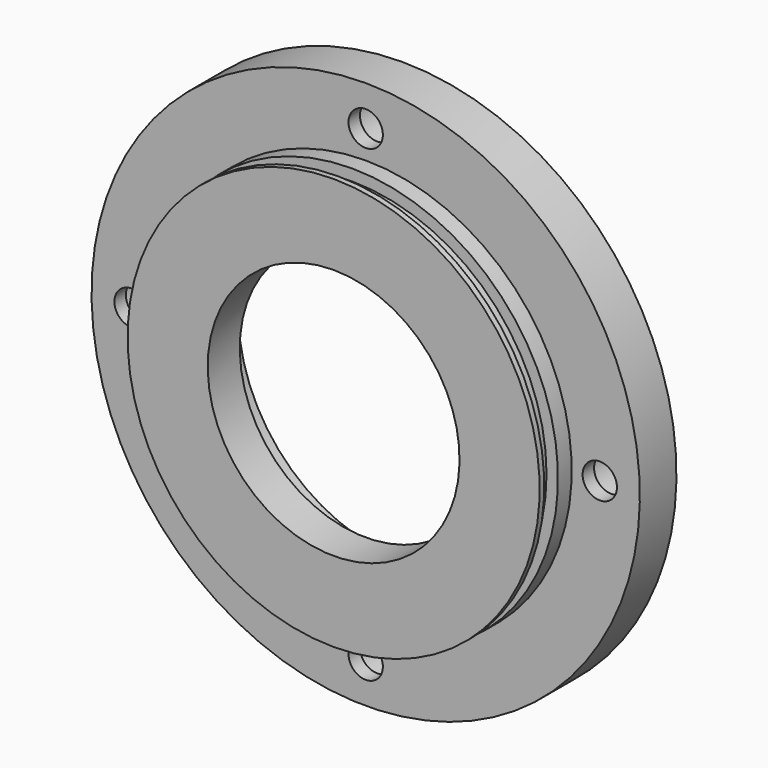
from build123d import *

# Parameters (mm, degrees)
F2_R     = 5
F2_R_2   = 3
F3_DEPTH = 5.5
F4_DEPTH = 25


with BuildPart() as f1:
    # F0 (on Right) → F1 (revolve)
    with BuildSketch(Plane.YZ):
        Polygon((-8, 28.65), (0, 28.65), (0, 47.9), (-8, 47.9), (-8, 36), (-11, 36), (-11, 34), (-14, 34), (-14, 36), (-15, 36), (-15, 22), (-8, 22), align=None)
    revolve(axis=Axis((0, 0.8244532039, 0), (0, 1, 0)))

    # F2 (on Front) → F3 (cut)
    with BuildSketch(Plane.XZ):
        with Locations((0, 40.9)):
            Circle(F2_R)
        with Locations((0, 40.9)):
            Circle(F2_R_2, mode=Mode.SUBTRACT)
        with Locations((-40.9, 0)):
            Circle(F2_R)
        with Locations((-40.9, 0)):
            Circle(F2_R_2, mode=Mode.SUBTRACT)
        with Locations((40.9, 0)):
            Circle(F2_R)
        with Locations((40.9, 0)):
            Circle(F2_R_2, mode=Mode.SUBTRACT)
        with Locations((0, -40.9)):
            Circle(F2_R)
        with Locations((0, -40.9)):
            Circle(F2_R_2, mode=Mode.SUBTRACT)
    extrude(amount=F3_DEPTH, mode=Mode.SUBTRACT)

    # F4 (cut): faces of the model
    f4_faces = [f1.faces().sort_by_distance(p)[0] for p in [
        (-40.9, 0, 0),
        (0, 0, 40.9),
        (40.9, 0, 0),
        (0, 0, -40.9),
    ]]
    extrude(f4_faces, amount=-F4_DEPTH, mode=Mode.SUBTRACT)


solid = f1.part
